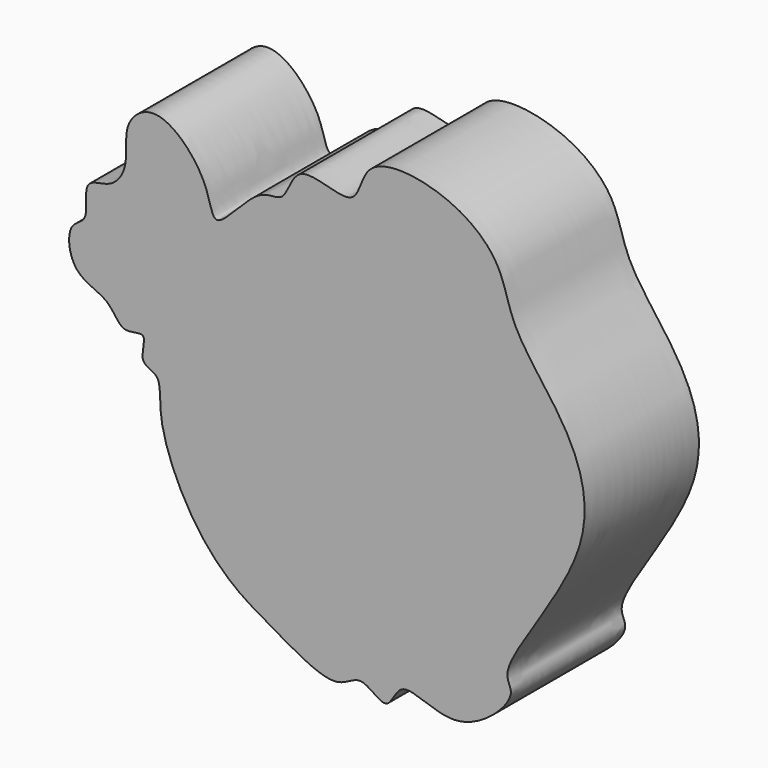
from build123d import *

# Parameters (mm, degrees)
F1_DEPTH = 25.4


with BuildPart() as f1:
    # F0 (on Front) → F1 (new body)
    with BuildSketch(Plane.XZ):
        with BuildLine():
            add(Edge.make_bspline(
                [(-19.2829854786, -33.0976620317), (-22.0658581338, -30.7428824677), (-27.3064709373, -24.3460846584), (-32.1866694047, -12.0016594874), (-31.0423977225, -4.91788838), (-35.6877407201, -4.5453103899), (-33.237953503, 1.3744524269), (-38.5188904916, -1.1808033683), (-40.3005302368, 4.1820398758), (-47.4206966518, 5.2298529138), (-48.3073264204, 13.7118880221), (-43.7762767141, 14.4589300029), (-45.6723031374, 21.6354832669), (-40.0043237456, 21.1063488289), (-36.8482176321, 25.8868235803), (-38.4129851993, 32.5072826083), (-31.7316232165, 37.8277110565), (-22.6337294807, 28.4309555184), (-22.2956866665, 19.0250476322), (-14.2222147104, 30.5606327732), (-9.105655491, 28.4159400918), (-7.5805413874, 37.4310205272), (4.0198392363, 30.7334608621), (4.1079942706, 41.7830258792), (19.1224573671, 40.5574287618), (29.4762900187, 32.7107951364), (30.5804633926, 22.2815487365), (41.3004925761, 10.8648638263), (47.8513756356, -7.8689735174), (27.3840350627, -31.3602005737), (32.8090819723, -34.7676380227), (21.4273361294, -45.7142786894), (11.0017775166, -37.3822919577), (9.1551795024, -45.6408419202), (4.0770755274, -39.7282771884), (-0.0718160828, -44.8517967761), (-10.8797596896, -38.4883934839), (-16.6506234448, -35.3250842282), (-19.2829854786, -33.0976620317)],
                knots=[0, 0, 0, 0, 0.0347530351, 0.0717861852, 0.096125668, 0.113240809, 0.1327550737, 0.1507055869, 0.1720524648, 0.1977093214, 0.2232123793, 0.2414170552, 0.2644499728, 0.2846490278, 0.307098364, 0.3325365074, 0.3568908567, 0.391561828, 0.4150216244, 0.4466076533, 0.4672597663, 0.491464232, 0.5211823638, 0.5468392199, 0.5823347316, 0.6180723842, 0.6492771589, 0.6882550771, 0.7321462351, 0.7843569944, 0.8024540544, 0.8372784175, 0.8690800645, 0.889947949, 0.9119679898, 0.9334891456, 0.9671265697, 1, 1, 1, 1], degree=3))
        make_face()
    extrude(amount=F1_DEPTH)


solid = f1.part
